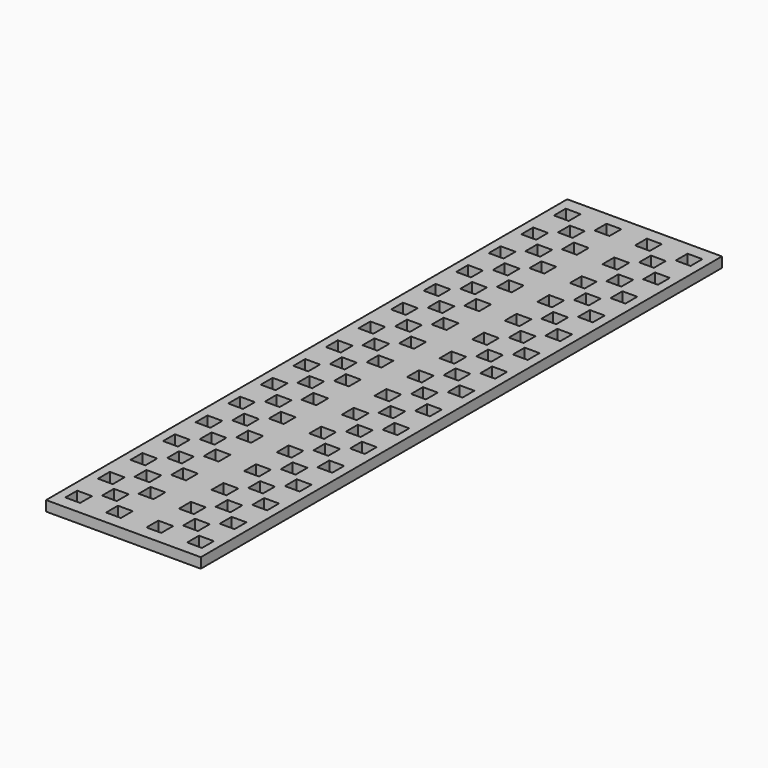
from build123d import *

# Parameters (mm, degrees)
F0_W     = 24.13
F0_H     = 203.2
F0_W_2   = 4.6228
F0_H_2   = 4.6228
F1_DEPTH = 3.175


with BuildPart() as f1:
    # F0 (on Top) → F1 (new body)
    with BuildSketch(Plane.XY):
        with Locations((0.48795, 36.187809)):
            Rectangle(F0_W, F0_H)
        with Locations((-5.27785, -59.112991)):
            Rectangle(F0_W_2, F0_H_2, mode=Mode.SUBTRACT)
        with Locations((-5.27785, -46.412991)):
            Rectangle(F0_W_2, F0_H_2, mode=Mode.SUBTRACT)
        with Locations((-5.27785, -33.712991)):
            Rectangle(F0_W_2, F0_H_2, mode=Mode.SUBTRACT)
        with Locations((-5.27785, -21.012991)):
            Rectangle(F0_W_2, F0_H_2, mode=Mode.SUBTRACT)
        with Locations((-5.27785, -8.312991)):
            Rectangle(F0_W_2, F0_H_2, mode=Mode.SUBTRACT)
        with Locations((-5.27785, 4.387009)):
            Rectangle(F0_W_2, F0_H_2, mode=Mode.SUBTRACT)
        with Locations((-5.27785, 17.087009)):
            Rectangle(F0_W_2, F0_H_2, mode=Mode.SUBTRACT)
        with Locations((-5.27785, 29.787009)):
            Rectangle(F0_W_2, F0_H_2, mode=Mode.SUBTRACT)
        with Locations((1.07215, -52.762991)):
            Rectangle(F0_W_2, F0_H_2, mode=Mode.SUBTRACT)
        with Locations((1.07215, -40.062991)):
            Rectangle(F0_W_2, F0_H_2, mode=Mode.SUBTRACT)
        with Locations((1.07215, -27.362991)):
            Rectangle(F0_W_2, F0_H_2, mode=Mode.SUBTRACT)
        with Locations((1.07215, -14.662991)):
            Rectangle(F0_W_2, F0_H_2, mode=Mode.SUBTRACT)
        with Locations((7.42215, -59.112991)):
            Rectangle(F0_W_2, F0_H_2, mode=Mode.SUBTRACT)
        with Locations((7.42215, -46.412991)):
            Rectangle(F0_W_2, F0_H_2, mode=Mode.SUBTRACT)
        with Locations((7.42215, -33.712991)):
            Rectangle(F0_W_2, F0_H_2, mode=Mode.SUBTRACT)
        with Locations((7.42215, -21.012991)):
            Rectangle(F0_W_2, F0_H_2, mode=Mode.SUBTRACT)
        with Locations((1.07215, -1.962991)):
            Rectangle(F0_W_2, F0_H_2, mode=Mode.SUBTRACT)
        with Locations((1.07215, 10.737009)):
            Rectangle(F0_W_2, F0_H_2, mode=Mode.SUBTRACT)
        with Locations((1.07215, 23.437009)):
            Rectangle(F0_W_2, F0_H_2, mode=Mode.SUBTRACT)
        with Locations((1.07215, 36.137009)):
            Rectangle(F0_W_2, F0_H_2, mode=Mode.SUBTRACT)
        with Locations((7.42215, -8.312991)):
            Rectangle(F0_W_2, F0_H_2, mode=Mode.SUBTRACT)
        with Locations((7.42215, 4.387009)):
            Rectangle(F0_W_2, F0_H_2, mode=Mode.SUBTRACT)
        with Locations((7.42215, 17.087009)):
            Rectangle(F0_W_2, F0_H_2, mode=Mode.SUBTRACT)
        with Locations((7.42215, 29.787009)):
            Rectangle(F0_W_2, F0_H_2, mode=Mode.SUBTRACT)
        with Locations((-5.27785, 42.487009)):
            Rectangle(F0_W_2, F0_H_2, mode=Mode.SUBTRACT)
        with Locations((-5.27785, 55.187009)):
            Rectangle(F0_W_2, F0_H_2, mode=Mode.SUBTRACT)
        with Locations((-5.27785, 67.887009)):
            Rectangle(F0_W_2, F0_H_2, mode=Mode.SUBTRACT)
        with Locations((-5.27785, 80.587009)):
            Rectangle(F0_W_2, F0_H_2, mode=Mode.SUBTRACT)
        with Locations((-5.27785, 93.287009)):
            Rectangle(F0_W_2, F0_H_2, mode=Mode.SUBTRACT)
        with Locations((-5.27785, 105.987009)):
            Rectangle(F0_W_2, F0_H_2, mode=Mode.SUBTRACT)
        with Locations((-5.27785, 118.687009)):
            Rectangle(F0_W_2, F0_H_2, mode=Mode.SUBTRACT)
        with Locations((-5.27785, 131.387009)):
            Rectangle(F0_W_2, F0_H_2, mode=Mode.SUBTRACT)
        with Locations((1.07215, 48.837009)):
            Rectangle(F0_W_2, F0_H_2, mode=Mode.SUBTRACT)
        with Locations((1.07215, 61.537009)):
            Rectangle(F0_W_2, F0_H_2, mode=Mode.SUBTRACT)
        with Locations((1.07215, 74.237009)):
            Rectangle(F0_W_2, F0_H_2, mode=Mode.SUBTRACT)
        with Locations((1.07215, 86.937009)):
            Rectangle(F0_W_2, F0_H_2, mode=Mode.SUBTRACT)
        with Locations((7.42215, 42.487009)):
            Rectangle(F0_W_2, F0_H_2, mode=Mode.SUBTRACT)
        with Locations((7.42215, 55.187009)):
            Rectangle(F0_W_2, F0_H_2, mode=Mode.SUBTRACT)
        with Locations((7.42215, 67.887009)):
            Rectangle(F0_W_2, F0_H_2, mode=Mode.SUBTRACT)
        with Locations((7.42215, 80.587009)):
            Rectangle(F0_W_2, F0_H_2, mode=Mode.SUBTRACT)
        with Locations((1.07215, 99.637009)):
            Rectangle(F0_W_2, F0_H_2, mode=Mode.SUBTRACT)
        with Locations((1.07215, 112.337009)):
            Rectangle(F0_W_2, F0_H_2, mode=Mode.SUBTRACT)
        with Locations((1.07215, 125.037009)):
            Rectangle(F0_W_2, F0_H_2, mode=Mode.SUBTRACT)
        with Locations((7.42215, 93.287009)):
            Rectangle(F0_W_2, F0_H_2, mode=Mode.SUBTRACT)
        with Locations((7.42215, 105.987009)):
            Rectangle(F0_W_2, F0_H_2, mode=Mode.SUBTRACT)
        with Locations((7.42215, 118.687009)):
            Rectangle(F0_W_2, F0_H_2, mode=Mode.SUBTRACT)
        with Locations((7.42215, 131.387009)):
            Rectangle(F0_W_2, F0_H_2, mode=Mode.SUBTRACT)
    extrude(amount=F1_DEPTH)

    # F2: F1 across face


with BuildPart() as f1_1:
    add(f1.part)
    add(f1.part.mirror(Plane(origin=(-11.57705, 36.187809, 1.5875), x_dir=(0, -1, 0), z_dir=(-1, 0, 0))))


solid = f1_1.part
